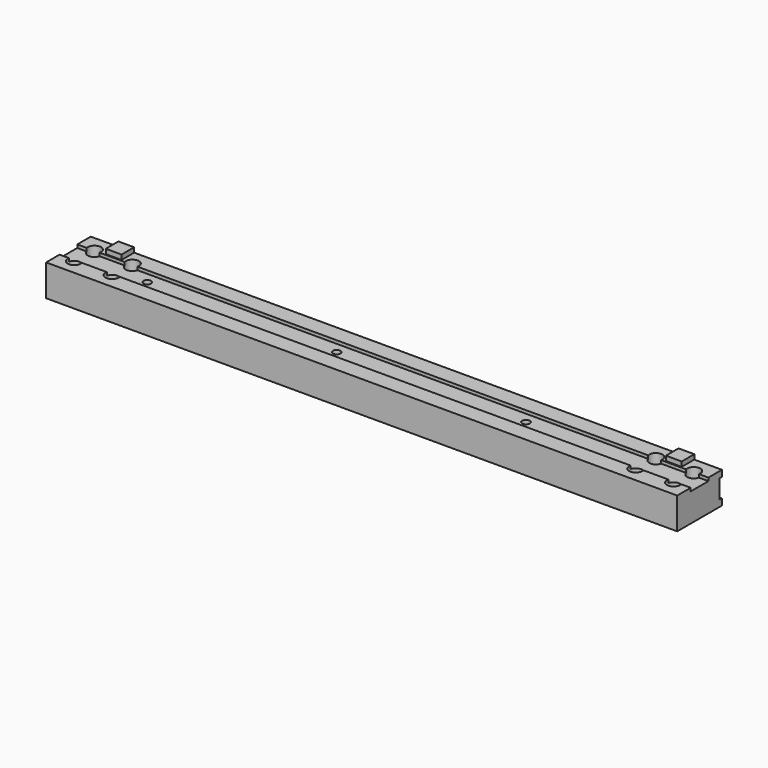
from build123d import *

# Parameters (mm, degrees)
SKETCH_W        = 200
SKETCH_H        = 17.7
SKETCH_R        = 1.2
PAD_DEPTH       = 10
SKETCH001_R     = 2.1
POCKET_DEPTH    = 3.3
SKETCH002_W     = 7
SKETCH002_H     = 1
POCKET001_DEPTH = 200
SKETCH012_W     = 5
SKETCH012_H     = 5
PAD003_DEPTH    = 1.5
SKETCH013_W     = 1
SKETCH013_H     = 6
POCKET009_DEPTH = 200


with BuildPart() as part:
    # Sketch → Pad (new body)
    with BuildSketch(Plane.XY):
        Rectangle(SKETCH_W, SKETCH_H)
        with Locations((-75, 0)):
            Circle(SKETCH_R, mode=Mode.SUBTRACT)
        with Locations((-15, 0)):
            Circle(SKETCH_R, mode=Mode.SUBTRACT)
        with Locations((45, 0)):
            Circle(SKETCH_R, mode=Mode.SUBTRACT)
        with Locations((-94.96, 4)):
            Circle(SKETCH_R, mode=Mode.SUBTRACT)
        with Locations((-82.96, 4)):
            Circle(SKETCH_R, mode=Mode.SUBTRACT)
        with Locations((-94.96, -4)):
            Circle(SKETCH_R, mode=Mode.SUBTRACT)
        with Locations((-82.96, -4)):
            Circle(SKETCH_R, mode=Mode.SUBTRACT)
        with Locations((82.96, 4)):
            Circle(SKETCH_R, mode=Mode.SUBTRACT)
        with Locations((94.96, 4)):
            Circle(SKETCH_R, mode=Mode.SUBTRACT)
        with Locations((82.96, -4)):
            Circle(SKETCH_R, mode=Mode.SUBTRACT)
        with Locations((94.96, -4)):
            Circle(SKETCH_R, mode=Mode.SUBTRACT)
    extrude(amount=PAD_DEPTH)

    # Sketch001 (on Face17 of Pad) → Pocket (cut)
    with BuildSketch(Plane.XY.offset(10)):
        with Locations((94.96, -4)):
            Circle(SKETCH001_R)
        with Locations((-94.96, 4)):
            Circle(SKETCH001_R)
        with Locations((-82.96, 4)):
            Circle(SKETCH001_R)
        with Locations((-82.96, -4)):
            Circle(SKETCH001_R)
        with Locations((94.96, 4)):
            Circle(SKETCH001_R)
        with Locations((82.96, 4)):
            Circle(SKETCH001_R)
        with Locations((-94.96, -4)):
            Circle(SKETCH001_R)
        with Locations((82.96, -4)):
            Circle(SKETCH001_R)
    extrude(amount=-POCKET_DEPTH, mode=Mode.SUBTRACT)

    # Sketch002 (on Face3 of Pocket) → Pocket001 (cut)
    with BuildSketch(Plane.YZ.offset(100)):
        with Locations((0, 9.5)):
            Rectangle(SKETCH002_W, SKETCH002_H)
    extrude(amount=-POCKET001_DEPTH, mode=Mode.SUBTRACT)

    # Sketch012 (on Face9 of Pocket001) → Pad003 (join)
    with BuildSketch(Plane.XY.offset(10)):
        with Locations((88.75, 6.35)):
            Rectangle(SKETCH012_W, SKETCH012_H)
        with Locations((-88.75, 6.35)):
            Rectangle(SKETCH012_W, SKETCH012_H)
    extrude(amount=PAD003_DEPTH)

    # Sketch013 (on Face3 of Pad003) → Pocket009 (cut)
    with BuildSketch(Plane.YZ.offset(100)):
        with Locations((8.35, 5)):
            Rectangle(SKETCH013_W, SKETCH013_H)
    extrude(amount=-POCKET009_DEPTH, mode=Mode.SUBTRACT)


solid = part.part
